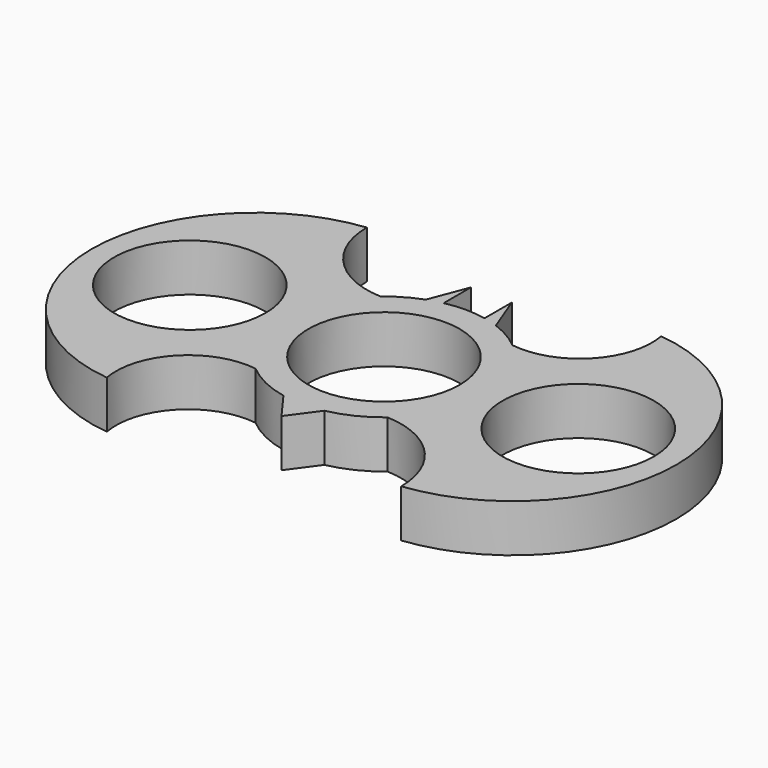
from build123d import *

# Parameters (mm, degrees)
F0_R     = 11.1
F1_DEPTH = 7


with BuildPart() as f1:
    # F0 (on Top) → F1 (new body)
    with BuildSketch(Plane.XY):
        with BuildLine():
            ThreePointArc((21.596385, 23.84577), (18.811748, 14.597609), (9.676918, 11.46112))
            ThreePointArc((9.676918, 11.46112), (7.524514, 12.976197), (5.140412, 14.091706))
            Line((5.140412, 14.091706), (3, 19.696938))
            Line((3, 19.696938), (3, 17.696938))
            Line((3, 17.696938), (3, 15))
            Line((3, 15), (3, 14.696938))
            ThreePointArc((3, 14.696938), (0, 15), (-3, 14.696938))
            Line((-3, 14.696938), (-3, 17.696938))
            Line((-3, 17.696938), (-3, 19.696938))
            Line((-3, 19.696938), (-5.140412, 14.091706))
            ThreePointArc((-5.140412, 14.091706), (-7.524514, 12.976197), (-9.676918, 11.46112))
            ThreePointArc((-9.676918, 11.46112), (-18.132449, 15.251393), (-21.596385, 23.84577))
            ThreePointArc((-21.596385, 23.84577), (-42.887127, 0), (-21.596385, -23.84577))
            ThreePointArc((-21.596385, -23.84577), (-18.811748, -14.597609), (-9.676918, -11.46112))
            ThreePointArc((-9.676918, -11.46112), (-6.541689, -13.498382), (-3, -14.696938))
            Line((-3, -14.696938), (0, -18.796751))
            Line((0, -18.796751), (3, -14.696938))
            ThreePointArc((3, -14.696938), (6.541689, -13.498382), (9.676918, -11.46112))
            ThreePointArc((9.676918, -11.46112), (18.132449, -15.251393), (21.596385, -23.84577))
            ThreePointArc((21.596385, -23.84577), (42.887127, 0), (21.596385, 23.84577))
        make_face()
        with Locations((-28.5, 0)):
            Circle(F0_R, mode=Mode.SUBTRACT)
        Circle(F0_R, mode=Mode.SUBTRACT)
        with Locations((28.5, 0)):
            Circle(F0_R, mode=Mode.SUBTRACT)
    extrude(amount=F1_DEPTH)


solid = f1.part
